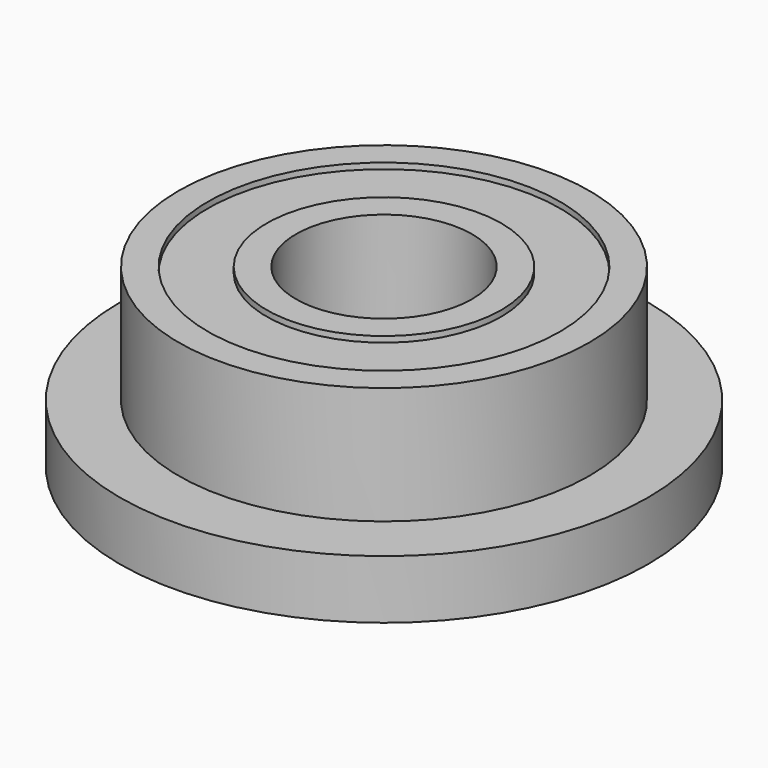
from build123d import *

# Parameters (mm, degrees)
F0_R     = 4.5
F0_R_2   = 3.5
F1_DEPTH = 1
F0_R_3   = 2
F0_R_4   = 1.5
F2_DEPTH = 3
F0_R_5   = 3
F3_START = 0.1
F3_DEPTH = 2.8


with BuildPart() as f1:
    # F0 (on Top) → F1 (new body)
    with BuildSketch(Plane.XY):
        Circle(F0_R)
        Circle(F0_R_2, mode=Mode.SUBTRACT)
    extrude(amount=F1_DEPTH)

    # F0 (on Top) → F2, piece 2 (join)
    with BuildSketch(Plane.XY):
        Circle(F0_R_2)
        Circle(F0_R_5, mode=Mode.SUBTRACT)
    extrude(amount=F2_DEPTH)


with BuildPart() as f2:
    # F0 (on Top) → F2 (new body)
    with BuildSketch(Plane.XY):
        Circle(F0_R_3)
        Circle(F0_R_4, mode=Mode.SUBTRACT)
    extrude(amount=F2_DEPTH)


with BuildPart() as f3:
    # F0 (on Top) → F3 (new body)
    with BuildSketch(Plane.XY.offset(F3_START)):
        Circle(F0_R_5)
        Circle(F0_R_3, mode=Mode.SUBTRACT)
    extrude(amount=F3_DEPTH)


solid = Compound([f1.part, f2.part, f3.part])
